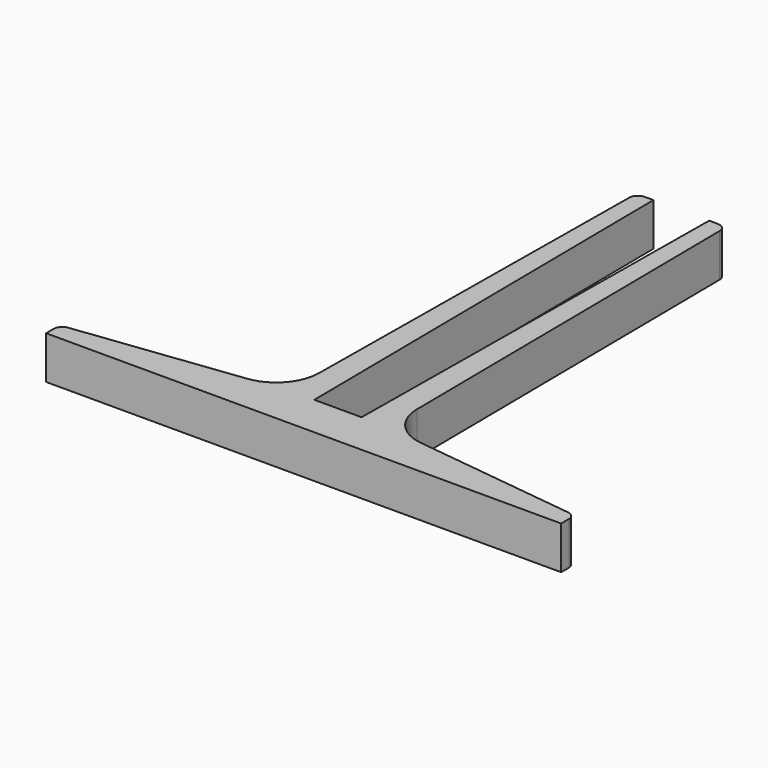
from build123d import *

# Parameters (mm, degrees)
F1_DEPTH = 5


with BuildPart() as f1:
    # F0 (on Top) → F1 (new body)
    with BuildSketch(Plane.XY):
        with BuildLine():
            Line((2.75, 0), (0, 0))
            Line((0, 0), (-2.75, 0))
            Line((-2.75, 0), (-3.25, 50))
            Line((-3.25, 50), (-4.269748, 49.989803))
            ThreePointArc((-4.269748, 49.989803), (-4.966856, 49.696958), (-5.259699, 48.999849))
            Line((-5.259699, 48.999849), (-5.706059, 4.350405))
            ThreePointArc((-5.706059, 4.350405), (-6.978148, 1.06804), (-10.097983, -0.56253))
            Line((-10.097983, -0.56253), (-29.121565, -2.892415))
            ThreePointArc((-29.121565, -2.892415), (-29.748854, -3.222264), (-30, -3.884998))
            Line((-30, -3.884998), (-30, -5))
            Line((-30, -5), (0, -5))
            Line((0, -5), (30, -5))
            Line((30, -5), (30, -3.884998))
            ThreePointArc((30, -3.884998), (29.748854, -3.222264), (29.121565, -2.892415))
            Line((29.121565, -2.892415), (10.097983, -0.56253))
            ThreePointArc((10.097983, -0.56253), (6.978148, 1.06804), (5.706059, 4.350405))
            Line((5.706059, 4.350405), (5.259699, 48.999849))
            ThreePointArc((5.259699, 48.999849), (4.966856, 49.696958), (4.269748, 49.989803))
            Line((4.269748, 49.989803), (3.25, 50))
            Line((3.25, 50), (2.75, 0))
        make_face()
    extrude(amount=F1_DEPTH)


solid = f1.part
